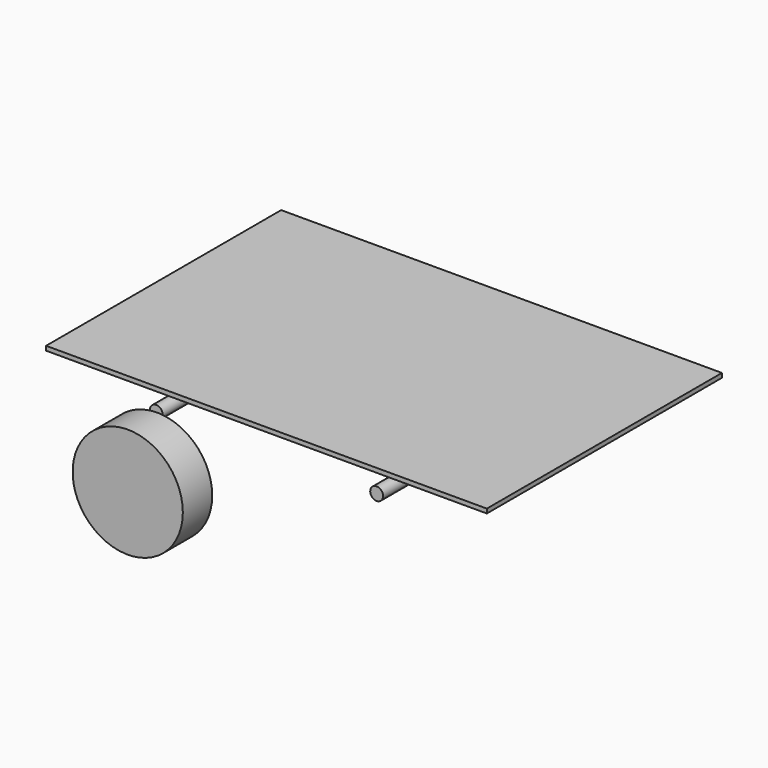
from build123d import *

# Parameters (mm, degrees)
F0_W     = 304.8
F0_H     = 203.2
F1_DEPTH = 3
F2_W     = 203.2
F2_H     = 127
F3_DEPTH = 25.4
F4_R     = 4.445
F5_DEPTH = 101.6
F6_R     = 38.1
F7_DEPTH = 25.4


with BuildPart() as f1:
    # F0 (on Top) → F1 (new body)
    with BuildSketch(Plane.XY):
        Rectangle(F0_W, F0_H)
    extrude(amount=F1_DEPTH)

    # F2 (on face) → F3 (join)
    with BuildSketch(Plane(origin=(0, 0, 0), x_dir=(1, 0, 0), z_dir=(0, 0, -1))):
        Rectangle(F2_W, F2_H)
    extrude(amount=F3_DEPTH)

    # F4 (on Front) → F5 (join, symmetric)
    with BuildSketch(Plane.XZ):
        with Locations((-76.2, -12.7)):
            Circle(F4_R)
        with Locations((76.2, -12.7)):
            Circle(F4_R)
    extrude(amount=F5_DEPTH, both=True)

    # F6 (on face) → F7 (join)
    with BuildSketch(Plane.XZ.offset(101.6)):
        with Locations((-75.607116, -50.795387)):
            Circle(F6_R)
    extrude(amount=F7_DEPTH)


solid = f1.part
